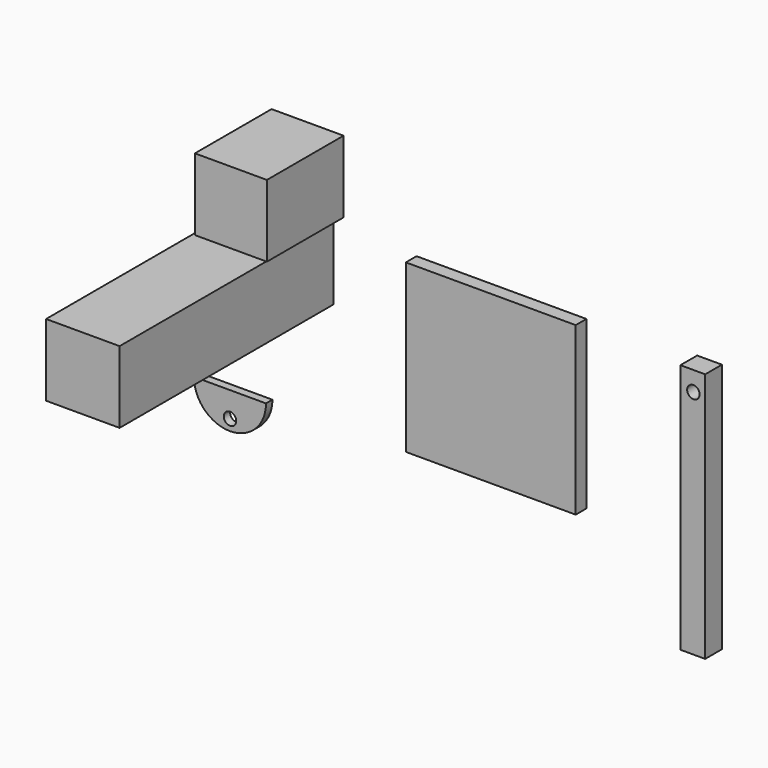
from build123d import *

# Parameters (mm, degrees)
F0_W     = 80.625468
F0_H     = 79.189382
F1_DEPTH = 6.35
F2_W     = 34.889974
F2_H     = 34.163102
F3_DEPTH = 127
F4_R     = 2.963833
F5_DEPTH = 3.81
F6_W     = 34.163
F6_H     = 34.163
F7_DEPTH = 45.47785
F8_W     = 11.753656
F8_H     = 118.904555
F8_R     = 2.963837
F9_DEPTH = 9.93472


with BuildPart() as f1:
    # F0 (on Front) → F1 (new body)
    with BuildSketch(Plane.XZ):
        Rectangle(F0_W, F0_H)
    extrude(amount=F1_DEPTH)


with BuildPart() as f3:
    # F2 (on Front) → F3 (new body)
    with BuildSketch(Plane.XZ):
        with Locations((-97.075891, 23.772512)):
            Rectangle(F2_W, F2_H)
    extrude(amount=F3_DEPTH)


with BuildPart() as f5:
    # F4 (on Front) → F5 (new body)
    with BuildSketch(Plane.XZ):
        with BuildLine():
            Line((-108.710087, -42.602777), (-142.873087, -42.602777))
            ThreePointArc((-142.873087, -42.602777), (-125.791587, -59.769982), (-108.710087, -42.602777))
        make_face()
        with Locations((-125.791587, -54.56315)):
            Circle(F4_R, mode=Mode.SUBTRACT)
    extrude(amount=F5_DEPTH)


with BuildPart() as f7:
    # F6 (on Front) → F7 (new body)
    with BuildSketch(Plane.XZ):
        with Locations((-92.026204, 61.598923)):
            Rectangle(F6_W, F6_H)
    extrude(amount=F7_DEPTH)


with BuildPart() as f9:
    # F8 (on Front) → F9 (new body)
    with BuildSketch(Plane.XZ):
        with Locations((98.742809, -18.041707)):
            Rectangle(F8_W, F8_H)
        with Locations((99.034849, 32.165025)):
            Circle(F8_R, mode=Mode.SUBTRACT)
    extrude(amount=F9_DEPTH)


solid = Compound([f1.part, f3.part, f5.part, f7.part, f9.part])
